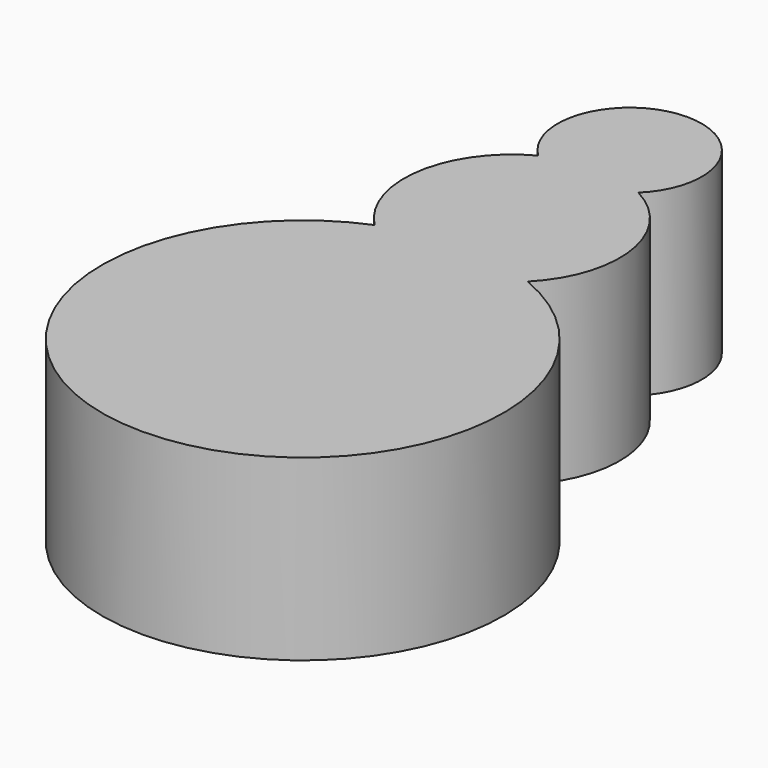
from build123d import *

# Parameters (mm, degrees)
F1_DEPTH = 25.4
F2_R     = 3.179177
F2_R_2   = 4.35825
F3_DEPTH = 25.4


with BuildPart() as f1:
    # F0 (on Top) → F1 (new body)
    with BuildSketch(Plane.XY):
        with BuildLine():
            ThreePointArc((21.754519, -63.497404), (30.307729, -37.217463), (14.243601, -14.728878))
            ThreePointArc((14.243601, -14.728878), (0, 20.48951), (-14.243601, -14.728878))
            ThreePointArc((-14.243601, -14.728878), (-30.307729, -37.217463), (-21.754519, -63.497404))
            ThreePointArc((-21.754519, -63.497404), (0, -173.323106), (21.754519, -63.497404))
        make_face()
    extrude(amount=F1_DEPTH)

    # F2 (on face) + F1_face (on face) → F3 (join)
    with BuildSketch(Plane.XY.offset(25.4)):
        with Locations((-16.633792, 0)):
            Circle(F2_R)
        with Locations((10.209051, 0)):
            Circle(F2_R_2)
        with BuildLine():
            ThreePointArc((-21.754519, -63.497404), (0, -173.323106), (21.754519, -63.497404))
            ThreePointArc((21.754519, -63.497404), (30.307729, -37.217463), (14.243601, -14.728878))
            ThreePointArc((14.243601, -14.728878), (0, 20.48951), (-14.243601, -14.728878))
            ThreePointArc((-14.243601, -14.728878), (-30.307729, -37.217463), (-21.754519, -63.497404))
        make_face()
        with Locations((-16.633792, 0)):
            Circle(F2_R, mode=Mode.SUBTRACT)
        with Locations((10.209051, 0)):
            Circle(F2_R_2, mode=Mode.SUBTRACT)
    with BuildSketch(Plane(origin=(0, -92.222093, 25.4), x_dir=(1, 0, 0), z_dir=(0, 0, 1))):
        with BuildLine():
            ThreePointArc((21.754519, 28.724689), (30.307729, 55.00463), (14.243601, 77.493215))
            ThreePointArc((14.243601, 77.493215), (0, 112.711603), (-14.243601, 77.493215))
            ThreePointArc((-14.243601, 77.493215), (-30.307729, 55.00463), (-21.754519, 28.724689))
            ThreePointArc((-21.754519, 28.724689), (0, -81.101013), (21.754519, 28.724689))
        make_face()
        with BuildLine():
            ThreePointArc((14.243601, 77.493215), (30.307729, 55.00463), (21.754519, 28.724689))
            ThreePointArc((21.754519, 28.724689), (0, -81.101013), (-21.754519, 28.724689))
            ThreePointArc((-21.754519, 28.724689), (-30.307729, 55.00463), (-14.243601, 77.493215))
            ThreePointArc((-14.243601, 77.493215), (0, 112.711603), (14.243601, 77.493215))
        make_face()
    extrude(amount=F3_DEPTH)


solid = f1.part
